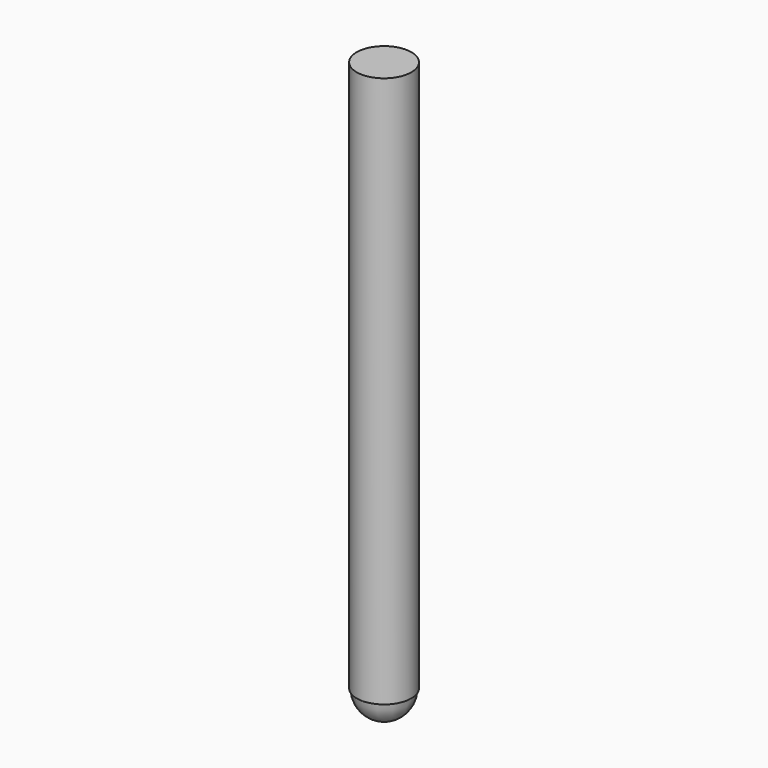
from build123d import *

# Parameters (mm, degrees)
F0_R     = 6.604
F1_DEPTH = 139.7


with BuildPart() as f1:
    # F0 (on Top) → F1 (new body)
    with BuildSketch(Plane.XY):
        Circle(F0_R)
    extrude(amount=F1_DEPTH)

    # F2 (on Front) → F3 (revolve, cut)
    with BuildSketch(Plane.XZ):
        with BuildLine():
            ThreePointArc((6.35, 6.35), (4.490128, 1.859872), (0, 0))
            Line((0, 0), (0, -9.464682))
            Line((0, -9.464682), (17.498041, -9.464682))
            Line((17.498041, -9.464682), (17.498041, 6.35))
            Line((17.498041, 6.35), (6.35, 6.35))
        make_face()
    revolve(axis=Axis((0, 0, 9.147046), (0, 0, 1)), mode=Mode.SUBTRACT)


solid = f1.part
